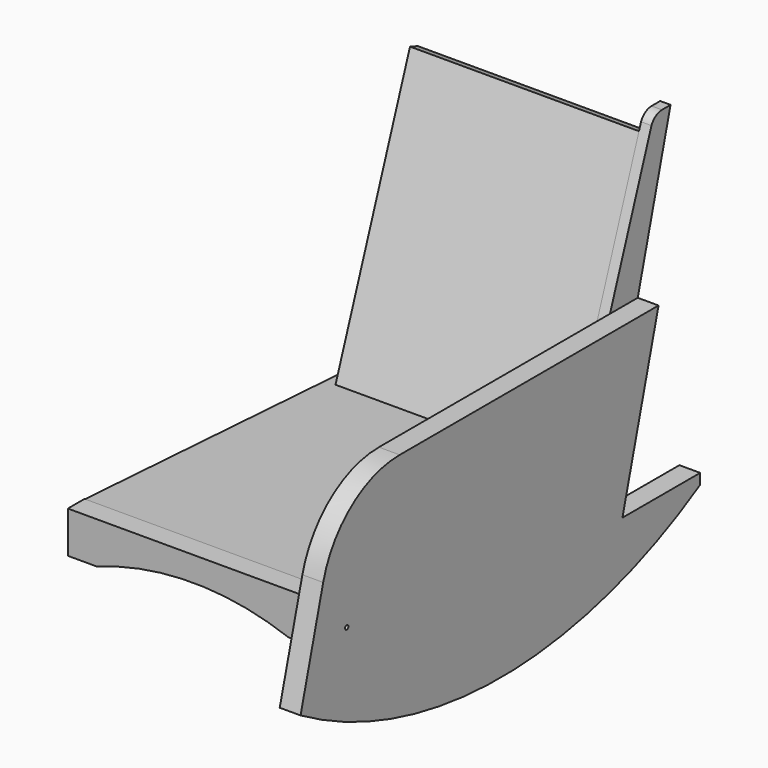
from build123d import *

# Parameters (mm, degrees)
F0_R      = 5
F1_DEPTH  = 50
F2_W      = 50
F2_H      = 100
F2_R      = 5
F3_DEPTH  = 600
F5_DEPTH  = 600
F7_DEPTH  = 25
F9_DEPTH  = 25
F10_W     = 600
F10_H     = 800
F11_DEPTH = 25
F12_W     = 550
F12_H     = 664.1751467431
F13_DEPTH = 25
F15_DEPTH = 50


with BuildPart() as f1:
    # F0 (on Right) → F1 (new body)
    with BuildSketch(Plane.YZ):
        with BuildLine():
            Line((-532.0236194466, 123.6913059399), (-600, -130))
            ThreePointArc((-600, -130), (0, -294.4024066372), (600, -130))
            Line((600, -130), (600, -104.7966844847))
            Line((600, -104.7966844847), (366.5350552935, -104.7966844847))
            Line((366.5350552935, -104.7966844847), (475, 300))
            Line((475, 300), (350, 300))
            Line((350, 300), (-302.253655895, 300))
            ThreePointArc((-302.253655895, 300), (-447.0630062075, 250.8438493132), (-532.0236194466, 123.6913059399))
        make_face()
        with Locations((-461.3408744335, 0)):
            Circle(F0_R, mode=Mode.SUBTRACT)
    extrude(amount=F1_DEPTH)


with BuildPart() as f3:
    # F2 (on face) → F3 (new body)
    with BuildSketch(Plane(origin=(0, 0, 0), x_dir=(0, -1, 0), z_dir=(-1, 0, 0))):
        with Locations((461.3408744335, 0)):
            Rectangle(F2_W, F2_H)
        with Locations((461.3408744335, 0)):
            Circle(F2_R, mode=Mode.SUBTRACT)
    extrude(amount=F3_DEPTH)

    # F14 (on face) → F15 (cut)
    with BuildSketch(Plane.XZ.offset(486.3408744335)):
        with BuildLine():
            Line((-530, -50), (-70, -50))
            ThreePointArc((-70, -50), (-300, -8.9970800157), (-530, -50))
        make_face()
    extrude(amount=-F15_DEPTH, mode=Mode.SUBTRACT)


with BuildPart() as f5:
    # F4 (on face) → F5 (new body)
    with BuildSketch(Plane(origin=(0, 0, 0), x_dir=(0, -1, 0), z_dir=(-1, 0, 0))):
        Polygon((-392.4169598038, -8.2041018558), (-366.5350552935, -104.7966844847), (-318.2387639791, -91.8557322296), (-344.1206684893, 4.7368503993), align=None)
    extrude(amount=F5_DEPTH)


with BuildPart() as f7:
    # F6 (on face) → F7 (new body)
    with BuildSketch(Plane(origin=(0, 0, 0), x_dir=(0, -1, 0), z_dir=(-1, 0, 0))):
        with BuildLine():
            Line((-573.5902913755, 667.9439765465), (-475, 300))
            Line((-475, 300), (-391.6912826529, 300))
            Line((-391.6912826529, 300), (-516.2232364988, 647.3929239418))
            ThreePointArc((-516.2232364988, 647.3929239418), (-529.0040606879, 662.2512427731), (-547.7580439349, 667.9439765465))
            Line((-547.7580439349, 667.9439765465), (-548.5902913755, 667.9439765465))
            Line((-548.5902913755, 667.9439765465), (-573.5902913755, 667.9439765465))
        make_face()
        Polygon((-475, 300), (-392.4169598038, -8.2041018558), (-344.1206684893, 4.7368503993), (-285.8465909958, 4.7368503993), (-391.6912826529, 300), align=None)
    extrude(amount=F7_DEPTH)


with BuildPart() as f9:
    # F8 (on face) → F9 (new body)
    with BuildSketch(Plane(origin=(0, 0, 0), x_dir=(0, -1, 0), z_dir=(-1, 0, 0))):
        Polygon((-344.0262324481, -47.7235187982), (454.5490399925, 0), (453.05768003, 24.9554772638), (-345.5175924105, -22.7680415345), align=None)
    extrude(amount=F9_DEPTH)


with BuildPart() as f11:
    # F10 (on face) → F11 (new body)
    with BuildSketch(Plane(origin=(0, -0.1262197333, -2.112081432), x_dir=(1, 0, 0), z_dir=(0, 0.0596543985, 0.9982190906))):
        with Locations((-300, -53.739529312)):
            Rectangle(F10_W, F10_H)
    extrude(amount=F11_DEPTH)


with BuildPart() as f13:
    # F12 (on face) → F13 (new body)
    with BuildSketch(Plane(origin=(0, 251.792035893, -90.261349704), x_dir=(1, 0, 0), z_dir=(0, -0.9413438217, 0.3374489729))):
        with Locations((-300, 433.0052167552)):
            Rectangle(F12_W, F12_H)
    extrude(amount=-F13_DEPTH)


solid = Compound([f1.part, f3.part, f5.part, f7.part, f9.part, f11.part, f13.part])
